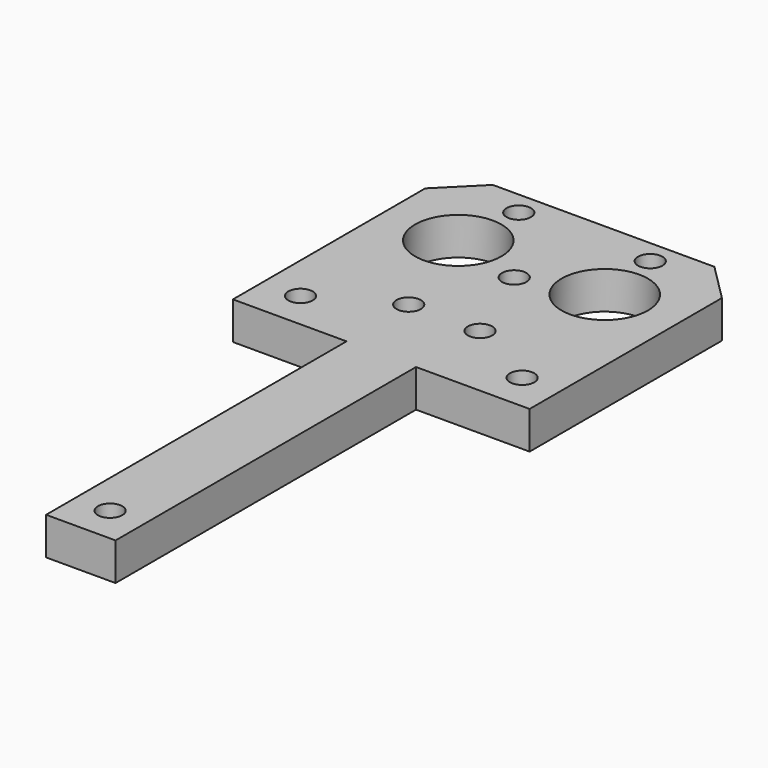
from build123d import *

# Parameters (mm, degrees)
F0_R     = 1.651
F0_R_2   = 5.842
F1_DEPTH = 5.08
F2_SIZE  = 5.08


with BuildPart() as f1:
    # F0 (on Top) → F1 (new body)
    with BuildSketch(Plane.XY):
        Polygon((-20.066, 37.592), (-20.066, 0), (-4.699, 0), (-4.699, -50.8), (4.699, -50.8), (4.699, 0), (20.066, 0), (20.066, 37.592), align=None)
        with Locations((0, -45.847)):
            Circle(F0_R, mode=Mode.SUBTRACT)
        with Locations((-14.986, 5.08)):
            Circle(F0_R, mode=Mode.SUBTRACT)
        with Locations((-4.826, 10.668)):
            Circle(F0_R, mode=Mode.SUBTRACT)
        with Locations((-9.906, 25.4)):
            Circle(F0_R_2, mode=Mode.SUBTRACT)
        with Locations((-8.89, 34.359578)):
            Circle(F0_R, mode=Mode.SUBTRACT)
        with Locations((4.826, 10.668)):
            Circle(F0_R, mode=Mode.SUBTRACT)
        with Locations((14.986, 5.08)):
            Circle(F0_R, mode=Mode.SUBTRACT)
        with Locations((0, 22.479)):
            Circle(F0_R, mode=Mode.SUBTRACT)
        with Locations((9.906, 25.4)):
            Circle(F0_R_2, mode=Mode.SUBTRACT)
        with Locations((8.89, 34.359578)):
            Circle(F0_R, mode=Mode.SUBTRACT)
    extrude(amount=F1_DEPTH)

    # F2
    f2_edges = [f1.edges().sort_by_distance(p)[0] for p in [
        (-20.066, 37.592, 2.54),
        (20.066, 37.592, 2.54),
    ]]
    chamfer(f2_edges, length=F2_SIZE)


solid = f1.part
